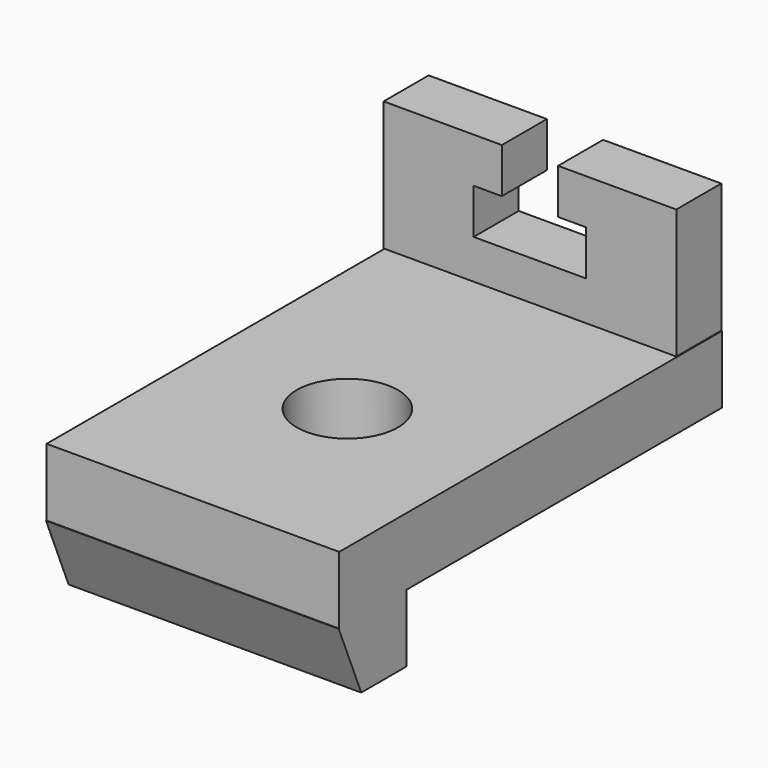
from build123d import *

# Parameters (mm, degrees)
F0_W     = 52
F0_H     = 85
F1_DEPTH = 12
F3_D     = 18
F5_DEPTH = 26
F7_START = -32.4
F7_DEPTH = 10


with BuildPart() as f1:
    # F0 (on Top) → F1 (new body)
    with BuildSketch(Plane.XY):
        Rectangle(F0_W, F0_H)
    extrude(amount=F1_DEPTH)

    # F3 (through all)
    with Locations(Plane(origin=(0, 0, 0), x_dir=(1, 0, 0), z_dir=(0, 0, -1))):
        with Locations((0, 8.197368371)):
            Hole(F3_D / 2)

    # F4 (on Right) → F5 (join, symmetric)
    with BuildSketch(Plane.YZ):
        Polygon((-27.6099449657, -12), (-27.6099449657, 0), (-42.6099449657, 0), (-37.6099449657, -12), align=None)
    extrude(amount=F5_DEPTH, both=True)


with BuildPart() as f7:
    # F6 (on Front) → F7 (new body)
    with BuildSketch(Plane.XZ.offset(F7_START)):
        Polygon((-26.0302734937, 35.1048394236), (-26.0302734937, 12.1048394236), (25.9697265063, 12.1048394236), (25.9697265063, 35.1048394236), (4.9697265063, 35.1048394236), (4.9697265063, 27.1048394236), (9.9697265063, 27.1048394236), (9.9697265063, 19.1048394236), (-10.0302734937, 19.1048394236), (-10.0302734937, 27.1048394236), (-5.0302734937, 27.1048394236), (-5.0302734937, 35.1048394236), align=None)
    extrude(amount=-F7_DEPTH)


solid = Compound([f1.part, f7.part])
